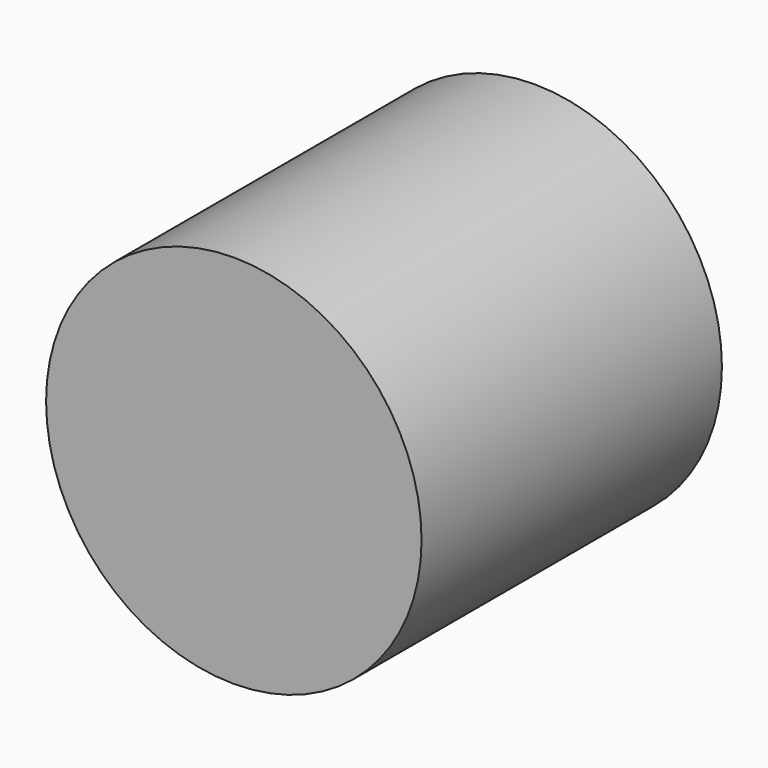
from build123d import *

# Parameters (mm, degrees)
F0_R     = 14
F0_R_2   = 12
F1_DEPTH = 28
F2_R     = 14
F3_DEPTH = 2


with BuildPart() as f1:
    # F0 (on Front) → F1 (new body)
    with BuildSketch(Plane.XZ):
        Circle(F0_R)
        Circle(F0_R_2, mode=Mode.SUBTRACT)
    extrude(amount=F1_DEPTH)

    # F2 (on face) → F3 (join)
    with BuildSketch(Plane.XZ.offset(28)):
        Circle(F2_R)
    extrude(amount=-F3_DEPTH)


solid = f1.part
